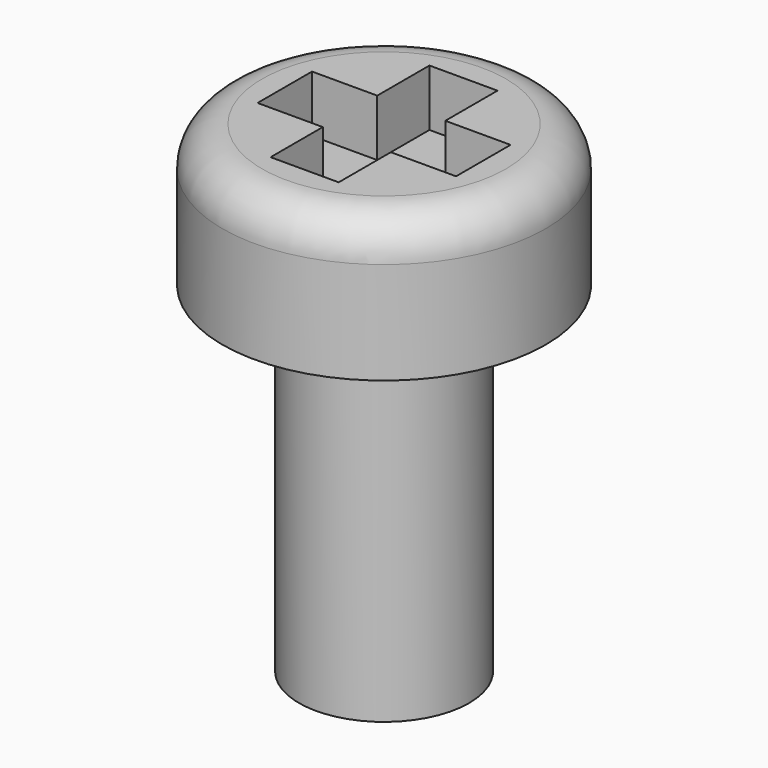
from build123d import *

# Parameters (mm, degrees)
SKETCH_R     = 2.85
PAD_DEPTH    = 2.5
POCKET_DEPTH = 1
FILLET_R     = 0.7
SKETCH002_R  = 1.5
PAD001_DEPTH = 6


with BuildPart() as part:
    # Sketch → Pad (new body)
    with BuildSketch(Plane.XY):
        Circle(SKETCH_R)
    extrude(amount=PAD_DEPTH)

    # Sketch001 (on Face3 of Pad) → Pocket (cut)
    with BuildSketch(Plane.XY.offset(2.5)):
        Polygon((-0.6, 1.75), (0.6, 1.75), (0.6, 0.6), (1.75, 0.6), (1.75, -0.6), (0.6, -0.6), (0.6, -1.75), (-0.6, -1.75), (-0.6, -0.6), (-1.75, -0.6), (-1.75, 0.6), (-0.6, 0.6), align=None)
    extrude(amount=-POCKET_DEPTH, mode=Mode.SUBTRACT)

    # Fillet
    fillet_edges = [part.edges().sort_by_distance(p)[0] for p in [
        (-2.85, 0, 2.5),
    ]]
    fillet(fillet_edges, radius=FILLET_R)

    # Sketch002 (on Face3 of Fillet) → Pad001 (join)
    with BuildSketch(Plane(origin=(0, 0, 0), x_dir=(1, 0, 0), z_dir=(0, 0, -1))):
        Circle(SKETCH002_R)
    extrude(amount=PAD001_DEPTH)


solid = part.part
